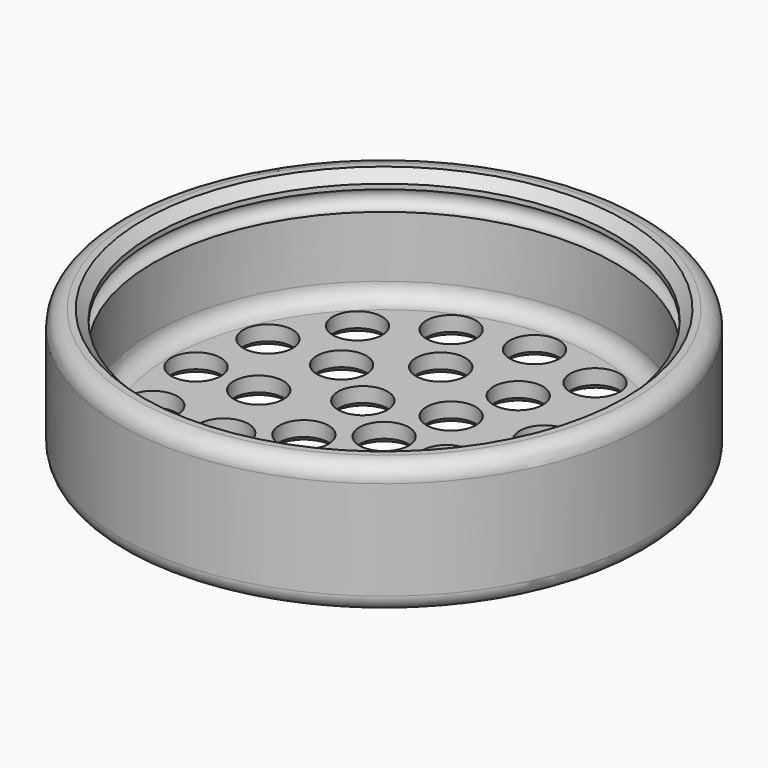
from build123d import *

# Parameters (mm, degrees)
F0_R     = 16
F0_R_2   = 14
F1_DEPTH = 8
F2_R     = 15
F2_R_2   = 1.5
F3_DEPTH = 1.2
F7_SIZE  = 0.6
F8_SIZE  = 0.3
F9_R     = 1
F10_R    = 1
F11_R    = 1


with BuildPart() as f1:
    # F0 (on Top) → F1 (new body)
    with BuildSketch(Plane.XY):
        Circle(F0_R)
        Circle(F0_R_2, mode=Mode.SUBTRACT)
    extrude(amount=F1_DEPTH)


with BuildPart() as f3:
    # F2 (on Top) → F3 (new body)
    with BuildSketch(Plane.XY):
        Circle(F2_R)
        with Locations((-8.061017, -8.061017)):
            Circle(F2_R_2, mode=Mode.SUBTRACT)
        with Locations((-4.362591, -10.532227)):
            Circle(F2_R_2, mode=Mode.SUBTRACT)
        with Locations((-10.532227, -4.362591)):
            Circle(F2_R_2, mode=Mode.SUBTRACT)
        with Locations((-6.148529, -4.467168)):
            Circle(F2_R_2, mode=Mode.SUBTRACT)
        with Locations((-2.348529, -7.22803)):
            Circle(F2_R_2, mode=Mode.SUBTRACT)
        with Locations((-3.074265, -2.233584)):
            Circle(F2_R_2, mode=Mode.SUBTRACT)
        with Locations((0, -11.4)):
            Circle(F2_R_2, mode=Mode.SUBTRACT)
        with Locations((4.362591, -10.532227)):
            Circle(F2_R_2, mode=Mode.SUBTRACT)
        with Locations((8.061017, -8.061017)):
            Circle(F2_R_2, mode=Mode.SUBTRACT)
        with Locations((2.348529, -7.22803)):
            Circle(F2_R_2, mode=Mode.SUBTRACT)
        with Locations((6.148529, -4.467168)):
            Circle(F2_R_2, mode=Mode.SUBTRACT)
        with Locations((1.174265, -3.614015)):
            Circle(F2_R_2, mode=Mode.SUBTRACT)
        with Locations((10.532227, -4.362591)):
            Circle(F2_R_2, mode=Mode.SUBTRACT)
        with Locations((-11.4, 0)):
            Circle(F2_R_2, mode=Mode.SUBTRACT)
        with Locations((-7.6, 0)):
            Circle(F2_R_2, mode=Mode.SUBTRACT)
        with Locations((-10.532227, 4.362591)):
            Circle(F2_R_2, mode=Mode.SUBTRACT)
        with Locations((-3.074265, 2.233584)):
            Circle(F2_R_2, mode=Mode.SUBTRACT)
        with Locations((-6.148529, 4.467168)):
            Circle(F2_R_2, mode=Mode.SUBTRACT)
        with Locations((-2.348529, 7.22803)):
            Circle(F2_R_2, mode=Mode.SUBTRACT)
        with Locations((-8.061017, 8.061017)):
            Circle(F2_R_2, mode=Mode.SUBTRACT)
        with Locations((-4.362591, 10.532227)):
            Circle(F2_R_2, mode=Mode.SUBTRACT)
        Circle(F2_R_2, mode=Mode.SUBTRACT)
        with Locations((1.174265, 3.614015)):
            Circle(F2_R_2, mode=Mode.SUBTRACT)
        with Locations((3.8, 0)):
            Circle(F2_R_2, mode=Mode.SUBTRACT)
        with Locations((2.348529, 7.22803)):
            Circle(F2_R_2, mode=Mode.SUBTRACT)
        with Locations((6.148529, 4.467168)):
            Circle(F2_R_2, mode=Mode.SUBTRACT)
        with Locations((7.6, 0)):
            Circle(F2_R_2, mode=Mode.SUBTRACT)
        with Locations((11.4, 0)):
            Circle(F2_R_2, mode=Mode.SUBTRACT)
        with Locations((10.532227, 4.362591)):
            Circle(F2_R_2, mode=Mode.SUBTRACT)
        with Locations((4.362591, 10.532227)):
            Circle(F2_R_2, mode=Mode.SUBTRACT)
        with Locations((0, 11.4)):
            Circle(F2_R_2, mode=Mode.SUBTRACT)
        with Locations((8.061017, 8.061017)):
            Circle(F2_R_2, mode=Mode.SUBTRACT)
    extrude(amount=F3_DEPTH)


with BuildPart() as f1_1:
    add(f1.part)

    # F4: union F3
    add(f3.part)

    # F5 (on Front) → F6 (revolve, cut)
    with BuildSketch(Plane.XZ):
        with BuildLine():
            ThreePointArc((-14, 7.1), (-14.6, 6.5), (-14, 5.9))
            Line((-14, 5.9), (-14, 7.1))
        make_face()
    revolve(axis=Axis((0, 0, 4.858873), (0, 0, 1)), mode=Mode.SUBTRACT)

    # F7
    f7_edges = [f1_1.edges().sort_by_distance(p)[0] for p in [
        (-14, 0, 8),
    ]]
    chamfer(f7_edges, length=F7_SIZE)

    # F8
    f8_edges = [f1_1.edges().sort_by_distance(p)[0] for p in [
        (-12.032227, -4.362591, 0),
        (-9.561017, -8.061017, 0),
        (-5.862591, -10.532227, 0),
        (-1.5, -11.4, 0),
        (2.862591, -10.532227, 0),
        (6.561017, -8.061017, 0),
        (9.032227, -4.362591, 0),
        (9.9, 0, 0),
        (9.032227, 4.362591, 0),
        (6.561017, 8.061017, 0),
        (2.862591, 10.532227, 0),
        (-1.5, 11.4, 0),
        (-5.862591, 10.532227, 0),
        (-9.561017, 8.061017, 0),
        (-12.032227, 4.362591, 0),
        (-12.9, 0, 0),
        (-9.1, 0, 0),
        (-7.648529, -4.467168, 0),
        (-3.848529, -7.22803, 0),
        (0.848529, -7.22803, 0),
        (4.648529, -4.467168, 0),
        (6.1, 0, 0),
        (4.648529, 4.467168, 0),
        (0.848529, 7.22803, 0),
        (-3.848529, 7.22803, 0),
        (-7.648529, 4.467168, 0),
        (-4.574265, 2.233584, 0),
        (-4.574265, -2.233584, 0),
        (-1.5, 0, 0),
        (-0.325735, 3.614015, 0),
        (-0.325735, -3.614015, 0),
        (2.3, 0, 0),
    ]]
    chamfer(f8_edges, length=F8_SIZE)

    # F9
    f9_edges = [f1_1.edges().sort_by_distance(p)[0] for p in [
        (-16, 0, 0),
    ]]
    fillet(f9_edges, radius=F9_R)

    # F10
    f10_edges = [f1_1.edges().sort_by_distance(p)[0] for p in [
        (-16, 0, 8),
    ]]
    fillet(f10_edges, radius=F10_R)

    # F11
    f11_edges = [f1_1.edges().sort_by_distance(p)[0] for p in [
        (-14, 0, 1.2),
    ]]
    fillet(f11_edges, radius=F11_R)


solid = f1_1.part
